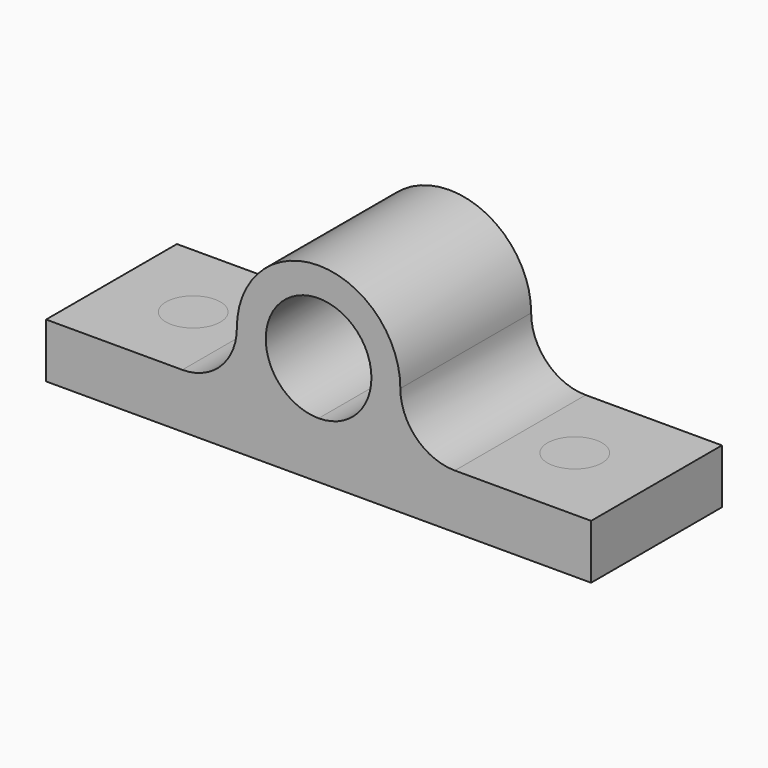
from build123d import *

# Parameters (mm, degrees)
F1_DEPTH = 38.1
F2_R     = 6.35
F3_DEPTH = 12.7


with BuildPart() as f1:
    # F0 (on Front) → F1 (new body)
    with BuildSketch(Plane.XZ):
        with BuildLine():
            Line((-127, 12.7), (-127, 0))
            Line((-127, 0), (-63.5, 0))
            Line((-63.5, 0), (0, 0))
            Line((0, 0), (0, 12.7))
            Line((0, 12.7), (-24.7968353347, 12.7))
            Line((-24.7968353347, 12.7), (-31.75, 12.7))
            ThreePointArc((-31.75, 12.7), (-40.7302561211, 16.4197438789), (-44.45, 25.4))
            ThreePointArc((-44.45, 25.4), (-63.5, 44.45), (-82.55, 25.4))
            ThreePointArc((-82.55, 25.4), (-86.2697438789, 16.4197438789), (-95.25, 12.7))
            Line((-95.25, 12.7), (-102.2031646653, 12.7))
            Line((-102.2031646653, 12.7), (-127, 12.7))
        make_face()
        with BuildLine():
            ThreePointArc((-51.1888807111, 25.4), (-54.7947240668, 16.6947240668), (-63.5, 13.0888807111))
            ThreePointArc((-63.5, 13.0888807111), (-72.2052759332, 34.1052759332), (-51.1888807111, 25.4))
        make_face(mode=Mode.SUBTRACT)
    extrude(amount=F1_DEPTH)


with BuildPart() as f3:
    # F2 (on face) → F3 (new body, through all)
    with BuildSketch(Plane.XY.offset(12.7)):
        with Locations((-107.95, -19.05)):
            Circle(F2_R)
    extrude(amount=-F3_DEPTH)


with BuildPart() as f3b:
    # F2 (on face) → F3, piece 2 (new body, through all)
    with BuildSketch(Plane.XY.offset(12.7)):
        with Locations((-19.05, -19.05)):
            Circle(F2_R)
    extrude(amount=-F3_DEPTH)


solid = Compound([f1.part, f3.part, f3b.part])
